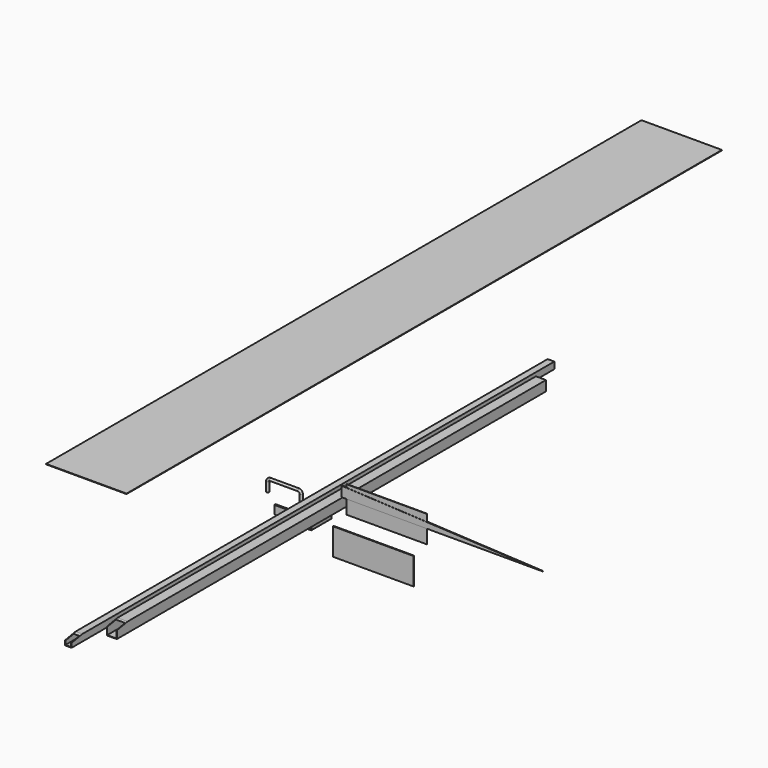
from build123d import *

# Parameters (mm, degrees)
F0_W      = 38.1
F0_H      = 38.1
F0_W_2    = 34.798
F0_H_2    = 34.798
F1_DEPTH  = 1016
F2_W      = 25.4
F2_H      = 25.4
F2_W_2    = 21.1836
F2_H_2    = 21.1836
F3_DEPTH  = 1143
F4_W      = 25.4
F4_H      = 25.4
F4_W_2    = 21.1836
F4_H_2    = 21.1836
F5_DEPTH  = 47.625
F6_W      = 304.8
F6_H      = 101.6
F7_DEPTH  = 1.5875
F8_W      = 76.2
F8_H      = 31.75
F9_DEPTH  = 3.175
F11_R     = 4.7625
F13_W     = 304.8
F13_H     = 101.6
F14_DEPTH = 0.79375
F15_W     = 304.8
F15_H     = 2819.4
F16_DEPTH = 0.889
F18_DEPTH = 38.1
F20_DEPTH = 25.4
F22_DEPTH = 1.5875


with BuildPart() as f1:
    # F0 (on Front) → F1 (new body, symmetric)
    with BuildSketch(Plane.XZ):
        with Locations((19.05, 19.05)):
            Rectangle(F0_W, F0_H)
        with Locations((19.05, 19.05)):
            Rectangle(F0_W_2, F0_H_2, mode=Mode.SUBTRACT)
    extrude(amount=F1_DEPTH, both=True)

    # F17 (on face) → F18 (cut, through all)
    with BuildSketch(Plane.YZ.offset(38.1)):
        Polygon((-965.2, 38.1), (-1016, 38.1), (-1016, 29.14258938), align=None)
    extrude(amount=-F18_DEPTH, mode=Mode.SUBTRACT)


with BuildPart() as f3:
    # F2 (on Front) → F3 (new body, symmetric)
    with BuildSketch(Plane.XZ):
        with Locations((-44.4378267646, 12.7)):
            Rectangle(F2_W, F2_H)
        with Locations((-44.4378267646, 12.7)):
            Rectangle(F2_W_2, F2_H_2, mode=Mode.SUBTRACT)
    extrude(amount=F3_DEPTH, both=True)

    # F19 (on face) → F20 (cut, through all)
    with BuildSketch(Plane.YZ.offset(-31.7378267646)):
        Polygon((-1092.2, 25.4), (-1143, 25.4), (-1143, 16.44258938), align=None)
    extrude(amount=-F20_DEPTH, mode=Mode.SUBTRACT)


with BuildPart() as f5:
    # F4 (on Front) → F5 (new body, symmetric)
    with BuildSketch(Plane.XZ):
        with Locations((-12.7, -30.6061554372)):
            Rectangle(F4_W, F4_H)
        with Locations((-12.7, -30.6061554372)):
            Rectangle(F4_W_2, F4_H_2, mode=Mode.SUBTRACT)
    extrude(amount=F5_DEPTH, both=True)


with BuildPart() as f7:
    # F6 (on Front) → F7 (new body, symmetric)
    with BuildSketch(Plane.XZ):
        with Locations((197.8030491917, -84.4690985978)):
            Rectangle(F6_W, F6_H)
    extrude(amount=F7_DEPTH, both=True)


with BuildPart() as f9:
    # F8 (on Front) → F9 (new body, symmetric)
    with BuildSketch(Plane.XZ):
        with Locations((-137.5931432034, -49.4461301714)):
            Rectangle(F8_W, F8_H)
    extrude(amount=F9_DEPTH, both=True)


with BuildPart() as f12:
    # F12: sweep along a path in F10
    with BuildLine(Plane.XZ) as f12_path:
        Line((-203.2, 0), (-203.2, 34.925))
        ThreePointArc((-203.2, 34.925), (-200.4101920908, 41.6601920908), (-193.675, 44.45))
        Line((-193.675, 44.45), (-85.725, 44.45))
        ThreePointArc((-85.725, 44.45), (-78.9898079092, 41.6601920908), (-76.2, 34.925))
        Line((-76.2, 34.925), (-76.2, 0))
    # F11 (on Top) → F12 (sweep)
    with BuildSketch(Plane.XY):
        with Locations((-76.2, 0)):
            Circle(F11_R)
    sweep(path=f12_path.line)


with BuildPart() as f14:
    # F13 (on Front) → F14 (new body, symmetric)
    with BuildSketch(Plane.XZ):
        with Locations((248.1276057661, 71.9936672337)):
            Rectangle(F13_W, F13_H)
    extrude(amount=F14_DEPTH, both=True)


with BuildPart() as f16:
    # F15 (on Top) → F16 (new body, symmetric)
    with BuildSketch(Plane.XY):
        with Locations((-673.3946353197, 1138.4873669436)):
            Rectangle(F15_W, F15_H)
    extrude(amount=F16_DEPTH, both=True)


with BuildPart() as f22:
    # F21 (on Front) → F22 (new body, symmetric)
    with BuildSketch(Plane.XZ):
        Polygon((77.1970674396, 112.1580186248), (77.1970674396, 74.0580186248), (839.1970674396, 74.0580186248), align=None)
    extrude(amount=F22_DEPTH, both=True)


solid = Compound([f1.part, f3.part, f5.part, f7.part, f9.part, f12.part, f14.part, f16.part, f22.part])
